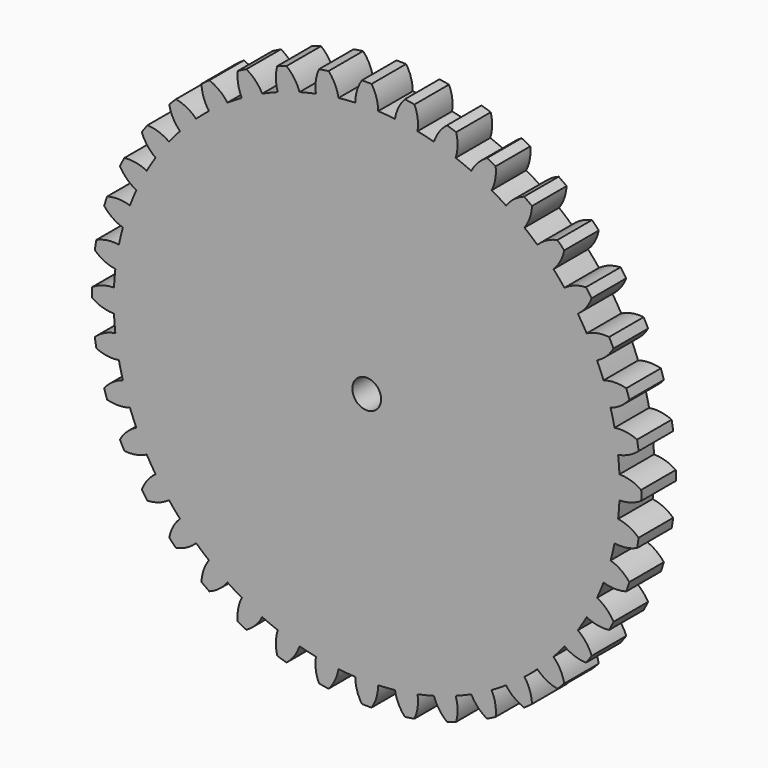
from build123d import *

# Parameters (mm, degrees)
F1_DEPTH = 3
F2_R     = 1
F3_DEPTH = 3.001


with BuildPart() as f1:
    # F0 (on Front) → F1 (new body)
    with BuildSketch(Plane.XZ):
        with BuildLine():
            ThreePointArc((17.552015, -0.794783), (17.565503, -0.397493), (17.57, 0))
            ThreePointArc((17.57, 0), (17.565503, 0.397493), (17.552015, 0.794783))
            ThreePointArc((17.552015, 0.794783), (17.515838, 1.378526), (17.460252, 1.960742))
            ThreePointArc((17.460252, 1.960742), (17.353684, 2.748554), (17.211589, 3.530738))
            ThreePointArc((17.211589, 3.530738), (17.08454, 4.101635), (16.93856, 4.667987))
            ThreePointArc((16.93856, 4.667987), (16.710063, 5.429429), (16.447356, 6.179755))
            ThreePointArc((16.447356, 6.179755), (16.232563, 6.723748), (15.999784, 7.260291))
            ThreePointArc((15.999784, 7.260291), (15.654985, 7.976613), (15.278135, 8.676605))
            ThreePointArc((15.278135, 8.676605), (14.980888, 9.1803), (14.66704, 9.673822))
            ThreePointArc((14.66704, 9.673822), (14.214429, 10.327387), (13.732716, 10.959809))
            ThreePointArc((13.732716, 10.959809), (13.360333, 11.410802), (12.973145, 11.849152))
            ThreePointArc((12.973145, 11.849152), (12.423866, 12.423866), (11.849152, 12.973145))
            ThreePointArc((11.849152, 12.973145), (11.410802, 13.360333), (10.959809, 13.732716))
            ThreePointArc((10.959809, 13.732716), (10.327387, 14.214429), (9.673822, 14.66704))
            ThreePointArc((9.673822, 14.66704), (9.1803, 14.980888), (8.676605, 15.278135))
            ThreePointArc((8.676605, 15.278135), (7.976613, 15.654985), (7.260291, 15.999784))
            ThreePointArc((7.260291, 15.999784), (6.723748, 16.232563), (6.179755, 16.447356))
            ThreePointArc((6.179755, 16.447356), (5.429429, 16.710063), (4.667987, 16.93856))
            ThreePointArc((4.667987, 16.93856), (4.101635, 17.08454), (3.530738, 17.211589))
            ThreePointArc((3.530738, 17.211589), (2.748554, 17.353684), (1.960742, 17.460252))
            ThreePointArc((1.960742, 17.460252), (1.378526, 17.515838), (0.794783, 17.552015))
            ThreePointArc((0.794783, 17.552015), (0, 17.57), (-0.794783, 17.552015))
            ThreePointArc((-0.794783, 17.552015), (-1.378526, 17.515838), (-1.960742, 17.460252))
            ThreePointArc((-1.960742, 17.460252), (-2.748554, 17.353684), (-3.530738, 17.211589))
            ThreePointArc((-3.530738, 17.211589), (-4.101635, 17.08454), (-4.667987, 16.93856))
            ThreePointArc((-4.667987, 16.93856), (-5.429429, 16.710063), (-6.179755, 16.447356))
            ThreePointArc((-6.179755, 16.447356), (-6.723748, 16.232563), (-7.260291, 15.999784))
            ThreePointArc((-7.260291, 15.999784), (-7.976613, 15.654985), (-8.676605, 15.278135))
            ThreePointArc((-8.676605, 15.278135), (-9.1803, 14.980888), (-9.673822, 14.66704))
            ThreePointArc((-9.673822, 14.66704), (-10.327387, 14.214429), (-10.959809, 13.732716))
            ThreePointArc((-10.959809, 13.732716), (-11.410802, 13.360333), (-11.849152, 12.973145))
            ThreePointArc((-11.849152, 12.973145), (-12.423866, 12.423866), (-12.973145, 11.849152))
            ThreePointArc((-12.973145, 11.849152), (-13.360333, 11.410802), (-13.732716, 10.959809))
            ThreePointArc((-13.732716, 10.959809), (-14.214429, 10.327387), (-14.66704, 9.673822))
            ThreePointArc((-14.66704, 9.673822), (-14.980888, 9.1803), (-15.278135, 8.676605))
            ThreePointArc((-15.278135, 8.676605), (-15.654985, 7.976613), (-15.999784, 7.260291))
            ThreePointArc((-15.999784, 7.260291), (-16.232563, 6.723748), (-16.447356, 6.179755))
            ThreePointArc((-16.447356, 6.179755), (-16.710063, 5.429429), (-16.93856, 4.667987))
            ThreePointArc((-16.93856, 4.667987), (-17.08454, 4.101635), (-17.211589, 3.530738))
            ThreePointArc((-17.211589, 3.530738), (-17.353684, 2.748554), (-17.460252, 1.960742))
            ThreePointArc((-17.460252, 1.960742), (-17.515838, 1.378526), (-17.552015, 0.794783))
            ThreePointArc((-17.552015, 0.794783), (-17.57, 0), (-17.552015, -0.794783))
            ThreePointArc((-17.552015, -0.794783), (-17.515838, -1.378526), (-17.460252, -1.960742))
            ThreePointArc((-17.460252, -1.960742), (-17.353684, -2.748554), (-17.211589, -3.530738))
            ThreePointArc((-17.211589, -3.530738), (-17.08454, -4.101635), (-16.93856, -4.667987))
            ThreePointArc((-16.93856, -4.667987), (-16.710063, -5.429429), (-16.447356, -6.179755))
            ThreePointArc((-16.447356, -6.179755), (-16.232563, -6.723748), (-15.999784, -7.260291))
            ThreePointArc((-15.999784, -7.260291), (-15.654985, -7.976613), (-15.278135, -8.676605))
            ThreePointArc((-15.278135, -8.676605), (-14.980888, -9.1803), (-14.66704, -9.673822))
            ThreePointArc((-14.66704, -9.673822), (-14.214429, -10.327387), (-13.732716, -10.959809))
            ThreePointArc((-13.732716, -10.959809), (-13.360333, -11.410802), (-12.973145, -11.849152))
            ThreePointArc((-12.973145, -11.849152), (-12.423866, -12.423866), (-11.849152, -12.973145))
            ThreePointArc((-11.849152, -12.973145), (-11.410802, -13.360333), (-10.959809, -13.732716))
            ThreePointArc((-10.959809, -13.732716), (-10.327387, -14.214429), (-9.673822, -14.66704))
            ThreePointArc((-9.673822, -14.66704), (-9.1803, -14.980888), (-8.676605, -15.278135))
            ThreePointArc((-8.676605, -15.278135), (-7.976613, -15.654985), (-7.260291, -15.999784))
            ThreePointArc((-7.260291, -15.999784), (-6.723748, -16.232563), (-6.179755, -16.447356))
            ThreePointArc((-6.179755, -16.447356), (-5.429429, -16.710063), (-4.667987, -16.93856))
            ThreePointArc((-4.667987, -16.93856), (-4.101635, -17.08454), (-3.530738, -17.211589))
            ThreePointArc((-3.530738, -17.211589), (-2.748554, -17.353684), (-1.960742, -17.460252))
            ThreePointArc((-1.960742, -17.460252), (-1.378526, -17.515838), (-0.794783, -17.552015))
            ThreePointArc((-0.794783, -17.552015), (0, -17.57), (0.794783, -17.552015))
            ThreePointArc((0.794783, -17.552015), (1.378526, -17.515838), (1.960742, -17.460252))
            ThreePointArc((1.960742, -17.460252), (2.748554, -17.353684), (3.530738, -17.211589))
            ThreePointArc((3.530738, -17.211589), (4.101635, -17.08454), (4.667987, -16.93856))
            ThreePointArc((4.667987, -16.93856), (5.429429, -16.710063), (6.179755, -16.447356))
            ThreePointArc((6.179755, -16.447356), (6.723748, -16.232563), (7.260291, -15.999784))
            ThreePointArc((7.260291, -15.999784), (7.976613, -15.654985), (8.676605, -15.278135))
            ThreePointArc((8.676605, -15.278135), (9.1803, -14.980888), (9.673822, -14.66704))
            ThreePointArc((9.673822, -14.66704), (10.327387, -14.214429), (10.959809, -13.732716))
            ThreePointArc((10.959809, -13.732716), (11.410802, -13.360333), (11.849152, -12.973145))
            ThreePointArc((11.849152, -12.973145), (12.423866, -12.423866), (12.973145, -11.849152))
            ThreePointArc((12.973145, -11.849152), (13.360333, -11.410802), (13.732716, -10.959809))
            ThreePointArc((13.732716, -10.959809), (14.214429, -10.327387), (14.66704, -9.673822))
            ThreePointArc((14.66704, -9.673822), (14.980888, -9.1803), (15.278135, -8.676605))
            ThreePointArc((15.278135, -8.676605), (15.654985, -7.976613), (15.999784, -7.260291))
            ThreePointArc((15.999784, -7.260291), (16.232563, -6.723748), (16.447356, -6.179755))
            ThreePointArc((16.447356, -6.179755), (16.710063, -5.429429), (16.93856, -4.667987))
            ThreePointArc((16.93856, -4.667987), (17.08454, -4.101635), (17.211589, -3.530738))
            ThreePointArc((17.211589, -3.530738), (17.353684, -2.748554), (17.460252, -1.960742))
            ThreePointArc((17.460252, -1.960742), (17.515838, -1.378526), (17.552015, -0.794783))
        make_face()
        with BuildLine():
            ThreePointArc((17.552015, 0.794783), (17.565503, 0.397493), (17.57, 0))
            ThreePointArc((17.57, 0), (17.565503, -0.397493), (17.552015, -0.794783))
            ThreePointArc((17.552015, -0.794783), (18.343122, -0.677387), (19.067016, -0.33737))
            ThreePointArc((19.067016, -0.33737), (19.07, 0), (19.067016, 0.33737))
            ThreePointArc((19.067016, 0.33737), (18.343122, 0.677387), (17.552015, 0.794783))
        make_face()
        with BuildLine():
            ThreePointArc((17.211589, 3.530738), (17.353684, 2.748554), (17.460252, 1.960742))
            ThreePointArc((17.460252, 1.960742), (18.223254, 2.20045), (18.885045, 2.649522))
            ThreePointArc((18.885045, 2.649522), (18.835217, 2.983205), (18.779493, 3.315955))
            ThreePointArc((18.779493, 3.315955), (18.011321, 3.538543), (17.211589, 3.530738))
        make_face()
        with BuildLine():
            ThreePointArc((18.885045, -2.649522), (18.223254, -2.20045), (17.460252, -1.960742))
            ThreePointArc((17.460252, -1.960742), (17.353684, -2.748554), (17.211589, -3.530738))
            ThreePointArc((17.211589, -3.530738), (18.011321, -3.538543), (18.779493, -3.315955))
            ThreePointArc((18.779493, -3.315955), (18.835217, -2.983205), (18.885045, -2.649522))
        make_face()
        with BuildLine():
            ThreePointArc((16.447356, 6.179755), (16.710063, 5.429429), (16.93856, 4.667987))
            ThreePointArc((16.93856, 4.667987), (17.65467, 5.024103), (18.238062, 5.571174))
            ThreePointArc((18.238062, 5.571174), (18.136648, 5.892954), (18.029556, 6.21289))
            ThreePointArc((18.029556, 6.21289), (17.236022, 6.312569), (16.447356, 6.179755))
        make_face()
        with BuildLine():
            ThreePointArc((18.238062, -5.571174), (17.65467, -5.024103), (16.93856, -4.667987))
            ThreePointArc((16.93856, -4.667987), (16.710063, -5.429429), (16.447356, -6.179755))
            ThreePointArc((16.447356, -6.179755), (17.236022, -6.312569), (18.029556, -6.21289))
            ThreePointArc((18.029556, -6.21289), (18.136648, -5.892954), (18.238062, -5.571174))
        make_face()
        with BuildLine():
            ThreePointArc((15.278135, 8.676605), (15.654985, 7.976613), (15.999784, 7.260291))
            ThreePointArc((15.999784, 7.260291), (16.651369, 7.724047), (17.141998, 8.355645))
            ThreePointArc((17.141998, 8.355645), (16.991494, 8.657599), (16.835672, 8.956843))
            ThreePointArc((16.835672, 8.956843), (16.036314, 8.931159), (15.278135, 8.676605))
        make_face()
        with BuildLine():
            ThreePointArc((17.141998, -8.355645), (16.651369, -7.724047), (15.999784, -7.260291))
            ThreePointArc((15.999784, -7.260291), (15.654985, -7.976613), (15.278135, -8.676605))
            ThreePointArc((15.278135, -8.676605), (16.036314, -8.931159), (16.835672, -8.956843))
            ThreePointArc((16.835672, -8.956843), (16.991494, -8.657599), (17.141998, -8.355645))
        make_face()
        with BuildLine():
            ThreePointArc((13.732716, 10.959809), (14.214429, 10.327387), (14.66704, 9.673822))
            ThreePointArc((14.66704, 9.673822), (15.238055, 10.233799), (15.623841, 10.934372))
            ThreePointArc((15.623841, 10.934372), (15.427954, 11.209065), (15.227238, 11.480249))
            ThreePointArc((15.227238, 11.480249), (14.44174, 11.329834), (13.732716, 10.959809))
        make_face()
        with BuildLine():
            ThreePointArc((15.623841, -10.934372), (15.238055, -10.233799), (14.66704, -9.673822))
            ThreePointArc((14.66704, -9.673822), (14.214429, -10.327387), (13.732716, -10.959809))
            ThreePointArc((13.732716, -10.959809), (14.44174, -11.329834), (15.227238, -11.480249))
            ThreePointArc((15.227238, -11.480249), (15.427954, -11.209065), (15.623841, -10.934372))
        make_face()
        with BuildLine():
            ThreePointArc((11.849152, 12.973145), (12.423866, 12.423866), (12.973145, 11.849152))
            ThreePointArc((12.973145, 11.849152), (13.449531, 12.491561), (13.720973, 13.243859))
            ThreePointArc((13.720973, 13.243859), (13.484526, 13.484526), (13.243859, 13.720973))
            ThreePointArc((13.243859, 13.720973), (12.491561, 13.449531), (11.849152, 12.973145))
        make_face()
        with BuildLine():
            ThreePointArc((13.720973, -13.243859), (13.449531, -12.491561), (12.973145, -11.849152))
            ThreePointArc((12.973145, -11.849152), (12.423866, -12.423866), (11.849152, -12.973145))
            ThreePointArc((11.849152, -12.973145), (12.491561, -13.449531), (13.243859, -13.720973))
            ThreePointArc((13.243859, -13.720973), (13.484526, -13.484526), (13.720973, -13.243859))
        make_face()
        with BuildLine():
            ThreePointArc((9.673822, 14.66704), (10.327387, 14.214429), (10.959809, 13.732716))
            ThreePointArc((10.959809, 13.732716), (11.329834, 14.44174), (11.480249, 15.227238))
            ThreePointArc((11.480249, 15.227238), (11.209065, 15.427954), (10.934372, 15.623841))
            ThreePointArc((10.934372, 15.623841), (10.233799, 15.238055), (9.673822, 14.66704))
        make_face()
        with BuildLine():
            ThreePointArc((11.480249, -15.227238), (11.329834, -14.44174), (10.959809, -13.732716))
            ThreePointArc((10.959809, -13.732716), (10.327387, -14.214429), (9.673822, -14.66704))
            ThreePointArc((9.673822, -14.66704), (10.233799, -15.238055), (10.934372, -15.623841))
            ThreePointArc((10.934372, -15.623841), (11.209065, -15.427954), (11.480249, -15.227238))
        make_face()
        with BuildLine():
            ThreePointArc((7.260291, 15.999784), (7.976613, 15.654985), (8.676605, 15.278135))
            ThreePointArc((8.676605, 15.278135), (8.931159, 16.036314), (8.956843, 16.835672))
            ThreePointArc((8.956843, 16.835672), (8.657599, 16.991494), (8.355645, 17.141998))
            ThreePointArc((8.355645, 17.141998), (7.724047, 16.651369), (7.260291, 15.999784))
        make_face()
        with BuildLine():
            ThreePointArc((8.956843, -16.835672), (8.931159, -16.036314), (8.676605, -15.278135))
            ThreePointArc((8.676605, -15.278135), (7.976613, -15.654985), (7.260291, -15.999784))
            ThreePointArc((7.260291, -15.999784), (7.724047, -16.651369), (8.355645, -17.141998))
            ThreePointArc((8.355645, -17.141998), (8.657599, -16.991494), (8.956843, -16.835672))
        make_face()
        with BuildLine():
            ThreePointArc((4.667987, 16.93856), (5.429429, 16.710063), (6.179755, 16.447356))
            ThreePointArc((6.179755, 16.447356), (6.312569, 17.236022), (6.21289, 18.029556))
            ThreePointArc((6.21289, 18.029556), (5.892954, 18.136648), (5.571174, 18.238062))
            ThreePointArc((5.571174, 18.238062), (5.024103, 17.65467), (4.667987, 16.93856))
        make_face()
        with BuildLine():
            ThreePointArc((6.21289, -18.029556), (6.312569, -17.236022), (6.179755, -16.447356))
            ThreePointArc((6.179755, -16.447356), (5.429429, -16.710063), (4.667987, -16.93856))
            ThreePointArc((4.667987, -16.93856), (5.024103, -17.65467), (5.571174, -18.238062))
            ThreePointArc((5.571174, -18.238062), (5.892954, -18.136648), (6.21289, -18.029556))
        make_face()
        with BuildLine():
            ThreePointArc((1.960742, 17.460252), (2.748554, 17.353684), (3.530738, 17.211589))
            ThreePointArc((3.530738, 17.211589), (3.538543, 18.011321), (3.315955, 18.779493))
            ThreePointArc((3.315955, 18.779493), (2.983205, 18.835217), (2.649522, 18.885045))
            ThreePointArc((2.649522, 18.885045), (2.20045, 18.223254), (1.960742, 17.460252))
        make_face()
        with BuildLine():
            ThreePointArc((3.315955, -18.779493), (3.538543, -18.011321), (3.530738, -17.211589))
            ThreePointArc((3.530738, -17.211589), (2.748554, -17.353684), (1.960742, -17.460252))
            ThreePointArc((1.960742, -17.460252), (2.20045, -18.223254), (2.649522, -18.885045))
            ThreePointArc((2.649522, -18.885045), (2.983205, -18.835217), (3.315955, -18.779493))
        make_face()
        with BuildLine():
            ThreePointArc((-0.794783, 17.552015), (0, 17.57), (0.794783, 17.552015))
            ThreePointArc((0.794783, 17.552015), (0.677387, 18.343122), (0.33737, 19.067016))
            ThreePointArc((0.33737, 19.067016), (0, 19.07), (-0.33737, 19.067016))
            ThreePointArc((-0.33737, 19.067016), (-0.677387, 18.343122), (-0.794783, 17.552015))
        make_face()
        with BuildLine():
            ThreePointArc((0.33737, -19.067016), (0.677387, -18.343122), (0.794783, -17.552015))
            ThreePointArc((0.794783, -17.552015), (0, -17.57), (-0.794783, -17.552015))
            ThreePointArc((-0.794783, -17.552015), (-0.677387, -18.343122), (-0.33737, -19.067016))
            ThreePointArc((-0.33737, -19.067016), (0, -19.07), (0.33737, -19.067016))
        make_face()
        with BuildLine():
            ThreePointArc((-3.530738, 17.211589), (-2.748554, 17.353684), (-1.960742, 17.460252))
            ThreePointArc((-1.960742, 17.460252), (-2.20045, 18.223254), (-2.649522, 18.885045))
            ThreePointArc((-2.649522, 18.885045), (-2.983205, 18.835217), (-3.315955, 18.779493))
            ThreePointArc((-3.315955, 18.779493), (-3.538543, 18.011321), (-3.530738, 17.211589))
        make_face()
        with BuildLine():
            ThreePointArc((-2.649522, -18.885045), (-2.20045, -18.223254), (-1.960742, -17.460252))
            ThreePointArc((-1.960742, -17.460252), (-2.748554, -17.353684), (-3.530738, -17.211589))
            ThreePointArc((-3.530738, -17.211589), (-3.538543, -18.011321), (-3.315955, -18.779493))
            ThreePointArc((-3.315955, -18.779493), (-2.983205, -18.835217), (-2.649522, -18.885045))
        make_face()
        with BuildLine():
            ThreePointArc((-6.179755, 16.447356), (-5.429429, 16.710063), (-4.667987, 16.93856))
            ThreePointArc((-4.667987, 16.93856), (-5.024103, 17.65467), (-5.571174, 18.238062))
            ThreePointArc((-5.571174, 18.238062), (-5.892954, 18.136648), (-6.21289, 18.029556))
            ThreePointArc((-6.21289, 18.029556), (-6.312569, 17.236022), (-6.179755, 16.447356))
        make_face()
        with BuildLine():
            ThreePointArc((-5.571174, -18.238062), (-5.024103, -17.65467), (-4.667987, -16.93856))
            ThreePointArc((-4.667987, -16.93856), (-5.429429, -16.710063), (-6.179755, -16.447356))
            ThreePointArc((-6.179755, -16.447356), (-6.312569, -17.236022), (-6.21289, -18.029556))
            ThreePointArc((-6.21289, -18.029556), (-5.892954, -18.136648), (-5.571174, -18.238062))
        make_face()
        with BuildLine():
            ThreePointArc((-8.676605, 15.278135), (-7.976613, 15.654985), (-7.260291, 15.999784))
            ThreePointArc((-7.260291, 15.999784), (-7.724047, 16.651369), (-8.355645, 17.141998))
            ThreePointArc((-8.355645, 17.141998), (-8.657599, 16.991494), (-8.956843, 16.835672))
            ThreePointArc((-8.956843, 16.835672), (-8.931159, 16.036314), (-8.676605, 15.278135))
        make_face()
        with BuildLine():
            ThreePointArc((-8.355645, -17.141998), (-7.724047, -16.651369), (-7.260291, -15.999784))
            ThreePointArc((-7.260291, -15.999784), (-7.976613, -15.654985), (-8.676605, -15.278135))
            ThreePointArc((-8.676605, -15.278135), (-8.931159, -16.036314), (-8.956843, -16.835672))
            ThreePointArc((-8.956843, -16.835672), (-8.657599, -16.991494), (-8.355645, -17.141998))
        make_face()
        with BuildLine():
            ThreePointArc((-10.959809, 13.732716), (-10.327387, 14.214429), (-9.673822, 14.66704))
            ThreePointArc((-9.673822, 14.66704), (-10.233799, 15.238055), (-10.934372, 15.623841))
            ThreePointArc((-10.934372, 15.623841), (-11.209065, 15.427954), (-11.480249, 15.227238))
            ThreePointArc((-11.480249, 15.227238), (-11.329834, 14.44174), (-10.959809, 13.732716))
        make_face()
        with BuildLine():
            ThreePointArc((-10.934372, -15.623841), (-10.233799, -15.238055), (-9.673822, -14.66704))
            ThreePointArc((-9.673822, -14.66704), (-10.327387, -14.214429), (-10.959809, -13.732716))
            ThreePointArc((-10.959809, -13.732716), (-11.329834, -14.44174), (-11.480249, -15.227238))
            ThreePointArc((-11.480249, -15.227238), (-11.209065, -15.427954), (-10.934372, -15.623841))
        make_face()
        with BuildLine():
            ThreePointArc((-12.973145, 11.849152), (-12.423866, 12.423866), (-11.849152, 12.973145))
            ThreePointArc((-11.849152, 12.973145), (-12.491561, 13.449531), (-13.243859, 13.720973))
            ThreePointArc((-13.243859, 13.720973), (-13.484526, 13.484526), (-13.720973, 13.243859))
            ThreePointArc((-13.720973, 13.243859), (-13.449531, 12.491561), (-12.973145, 11.849152))
        make_face()
        with BuildLine():
            ThreePointArc((-13.243859, -13.720973), (-12.491561, -13.449531), (-11.849152, -12.973145))
            ThreePointArc((-11.849152, -12.973145), (-12.423866, -12.423866), (-12.973145, -11.849152))
            ThreePointArc((-12.973145, -11.849152), (-13.449531, -12.491561), (-13.720973, -13.243859))
            ThreePointArc((-13.720973, -13.243859), (-13.484526, -13.484526), (-13.243859, -13.720973))
        make_face()
        with BuildLine():
            ThreePointArc((-14.66704, 9.673822), (-14.214429, 10.327387), (-13.732716, 10.959809))
            ThreePointArc((-13.732716, 10.959809), (-14.44174, 11.329834), (-15.227238, 11.480249))
            ThreePointArc((-15.227238, 11.480249), (-15.427954, 11.209065), (-15.623841, 10.934372))
            ThreePointArc((-15.623841, 10.934372), (-15.238055, 10.233799), (-14.66704, 9.673822))
        make_face()
        with BuildLine():
            ThreePointArc((-15.227238, -11.480249), (-14.44174, -11.329834), (-13.732716, -10.959809))
            ThreePointArc((-13.732716, -10.959809), (-14.214429, -10.327387), (-14.66704, -9.673822))
            ThreePointArc((-14.66704, -9.673822), (-15.238055, -10.233799), (-15.623841, -10.934372))
            ThreePointArc((-15.623841, -10.934372), (-15.427954, -11.209065), (-15.227238, -11.480249))
        make_face()
        with BuildLine():
            ThreePointArc((-15.999784, 7.260291), (-15.654985, 7.976613), (-15.278135, 8.676605))
            ThreePointArc((-15.278135, 8.676605), (-16.036314, 8.931159), (-16.835672, 8.956843))
            ThreePointArc((-16.835672, 8.956843), (-16.991494, 8.657599), (-17.141998, 8.355645))
            ThreePointArc((-17.141998, 8.355645), (-16.651369, 7.724047), (-15.999784, 7.260291))
        make_face()
        with BuildLine():
            ThreePointArc((-16.835672, -8.956843), (-16.036314, -8.931159), (-15.278135, -8.676605))
            ThreePointArc((-15.278135, -8.676605), (-15.654985, -7.976613), (-15.999784, -7.260291))
            ThreePointArc((-15.999784, -7.260291), (-16.651369, -7.724047), (-17.141998, -8.355645))
            ThreePointArc((-17.141998, -8.355645), (-16.991494, -8.657599), (-16.835672, -8.956843))
        make_face()
        with BuildLine():
            ThreePointArc((-16.93856, 4.667987), (-16.710063, 5.429429), (-16.447356, 6.179755))
            ThreePointArc((-16.447356, 6.179755), (-17.236022, 6.312569), (-18.029556, 6.21289))
            ThreePointArc((-18.029556, 6.21289), (-18.136648, 5.892954), (-18.238062, 5.571174))
            ThreePointArc((-18.238062, 5.571174), (-17.65467, 5.024103), (-16.93856, 4.667987))
        make_face()
        with BuildLine():
            ThreePointArc((-18.029556, -6.21289), (-17.236022, -6.312569), (-16.447356, -6.179755))
            ThreePointArc((-16.447356, -6.179755), (-16.710063, -5.429429), (-16.93856, -4.667987))
            ThreePointArc((-16.93856, -4.667987), (-17.65467, -5.024103), (-18.238062, -5.571174))
            ThreePointArc((-18.238062, -5.571174), (-18.136648, -5.892954), (-18.029556, -6.21289))
        make_face()
        with BuildLine():
            ThreePointArc((-17.460252, 1.960742), (-17.353684, 2.748554), (-17.211589, 3.530738))
            ThreePointArc((-17.211589, 3.530738), (-18.011321, 3.538543), (-18.779493, 3.315955))
            ThreePointArc((-18.779493, 3.315955), (-18.835217, 2.983205), (-18.885045, 2.649522))
            ThreePointArc((-18.885045, 2.649522), (-18.223254, 2.20045), (-17.460252, 1.960742))
        make_face()
        with BuildLine():
            ThreePointArc((-18.779493, -3.315955), (-18.011321, -3.538543), (-17.211589, -3.530738))
            ThreePointArc((-17.211589, -3.530738), (-17.353684, -2.748554), (-17.460252, -1.960742))
            ThreePointArc((-17.460252, -1.960742), (-18.223254, -2.20045), (-18.885045, -2.649522))
            ThreePointArc((-18.885045, -2.649522), (-18.835217, -2.983205), (-18.779493, -3.315955))
        make_face()
        with BuildLine():
            ThreePointArc((-17.552015, -0.794783), (-17.57, 0), (-17.552015, 0.794783))
            ThreePointArc((-17.552015, 0.794783), (-18.343122, 0.677387), (-19.067016, 0.33737))
            ThreePointArc((-19.067016, 0.33737), (-19.07, 0), (-19.067016, -0.33737))
            ThreePointArc((-19.067016, -0.33737), (-18.343122, -0.677387), (-17.552015, -0.794783))
        make_face()
    extrude(amount=F1_DEPTH)

    # F2 (on face) → F3 (cut, through all)
    with BuildSketch(Plane(origin=(0, 0, 0), x_dir=(-1, 0, 0), z_dir=(0, 1, 0))):
        Circle(F2_R)
    extrude(amount=-F3_DEPTH, mode=Mode.SUBTRACT)


with BuildPart() as f4_1:
    # F4: copy of F1
    add(f1.part)


solid = f1.part
